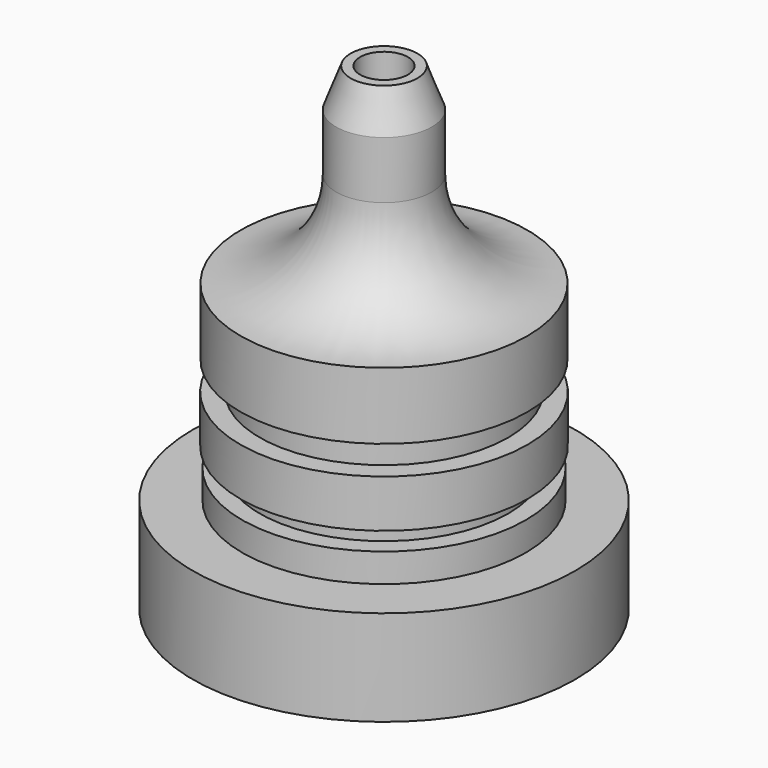
from build123d import *

# Parameters (mm, degrees)
F2_R     = 2.5
F3_DEPTH = 20


with BuildPart() as f1:
    # F0 (on Front) → F1 (revolve)
    with BuildSketch(Plane.XZ):
        with BuildLine():
            Line((0, -21.435744), (20, -21.435744))
            Line((20, -21.435744), (20, -11.435744))
            Line((20, -11.435744), (14.838474, -11.435744))
            Line((14.838474, -11.435744), (14.838474, -8.435744))
            Line((14.838474, -8.435744), (13, -8.435744))
            Line((13, -8.435744), (13, -6.435744))
            Line((13, -6.435744), (15.020292, -6.435744))
            Line((15.020292, -6.435744), (15.020292, -1.435744))
            Line((15.020292, -1.435744), (13, -1.435744))
            Line((13, -1.435744), (13, 1.564256))
            Line((13, 1.564256), (15, 1.564256))
            Line((15, 1.564256), (15, 8.564256))
            ThreePointArc((15, 8.564256), (7.928932, 11.493188), (5, 18.564256))
            Line((5, 18.564256), (5, 24.564256))
            Line((5, 24.564256), (3.5, 28.564256))
            Line((3.5, 28.564256), (0, 28.564256))
            Line((0, 28.564256), (0, -21.435744))
        make_face()
    revolve(axis=Axis((0, 0, 3.564256), (0, 0, 1)))

    # F2 (on face) → F3 (cut)
    with BuildSketch(Plane.XY.offset(28.564256)):
        Circle(F2_R)
    extrude(amount=-F3_DEPTH, mode=Mode.SUBTRACT)


solid = f1.part
